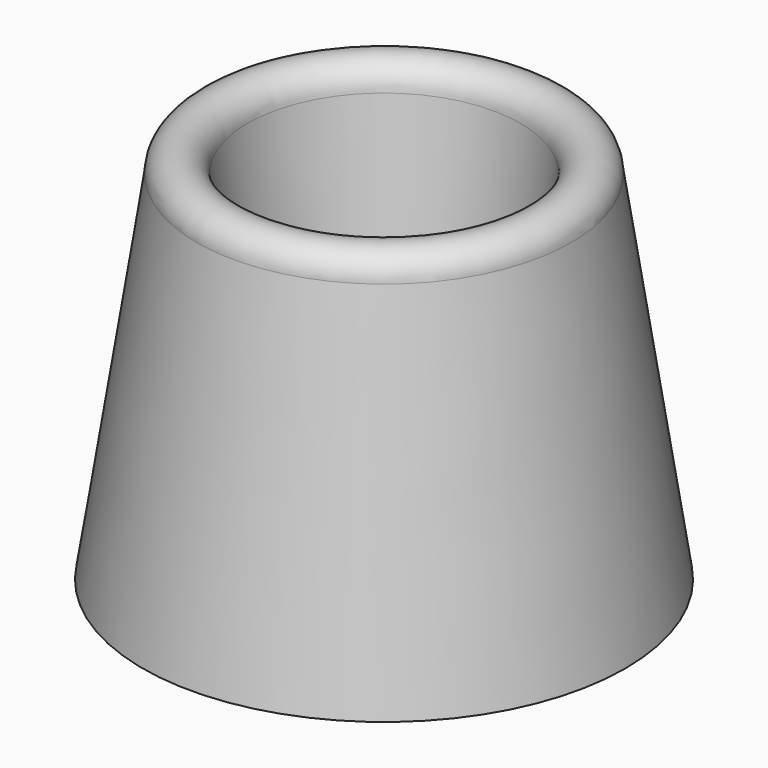
from build123d import *


with BuildPart() as f1:
    # F0 (on Front) → F1 (revolve)
    with BuildSketch(Plane.XZ):
        with BuildLine():
            Line((-17.29738, -27.745105), (0, -27.745105))
            Line((0, -27.745105), (0, -26.745105))
            Line((0, -26.745105), (-17.29738, -26.745105))
            ThreePointArc((-17.29738, -26.745105), (-19.968621, -25.722432), (-21.273958, -23.177342))
            Line((-21.273958, -23.177342), (-27.66262, 35.59837))
            ThreePointArc((-27.66262, 35.59837), (-32.778439, 40.668615), (-37.916428, 35.620837))
            Line((-37.916428, 35.620837), (-48.91203, -36.766866))
            Line((-48.91203, -36.766866), (-47.923371, -36.917042))
            Line((-47.923371, -36.917042), (-36.917046, 35.541255))
            ThreePointArc((-36.917046, 35.541255), (-32.789674, 39.668627), (-28.662302, 35.541255))
            Line((-28.662302, 35.541255), (-22.268102, -23.285401))
            ThreePointArc((-22.268102, -23.285401), (-20.636431, -26.466763), (-17.29738, -27.745105))
        make_face()
    revolve(axis=Axis((0, 0, -27.245105), (0, 0, -1)))


solid = f1.part
